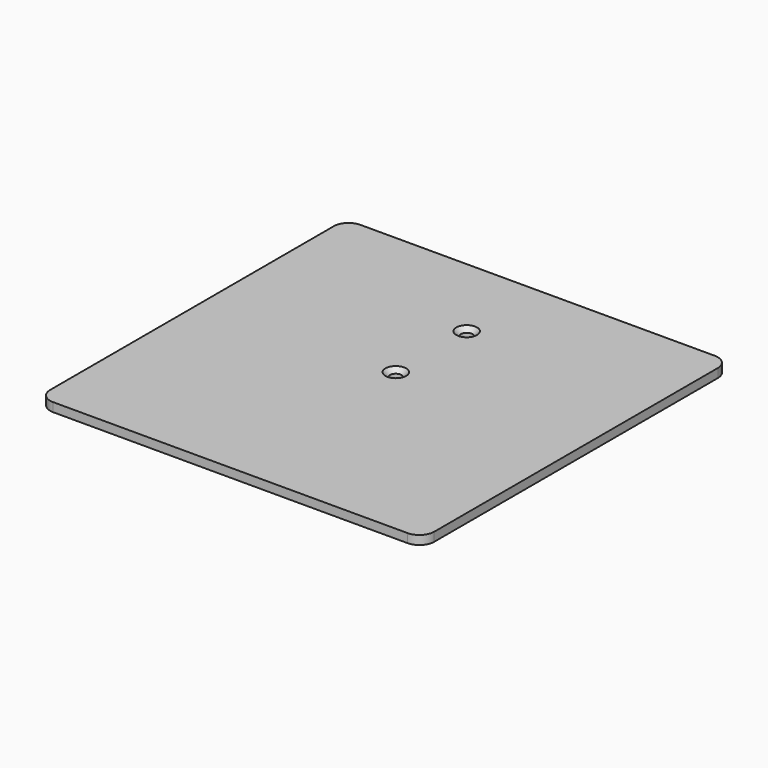
from build123d import *

# Parameters (mm, degrees)
F0_W           = 130
F0_H           = 130
F1_DEPTH       = 3
F2_D           = 4
F2_CSINK_D     = 7
F2_CSINK_ANGLE = 90
F3_R           = 5


with BuildPart() as f1:
    # F0 (on Top) → F1 (new body)
    with BuildSketch(Plane.XY):
        Rectangle(F0_W, F0_H)
    extrude(amount=-F1_DEPTH)

    # F2 (through all)
    with Locations(Plane.XY):
        with Locations((0, 35), (0, 5)):
            CounterSinkHole(F2_D / 2, F2_CSINK_D / 2, counter_sink_angle=F2_CSINK_ANGLE)

    # F3
    f3_edges = [f1.edges().sort_by_distance(p)[0] for p in [
        (-65, 65, -1.5),
        (65, 65, -1.5),
        (65, -65, -1.5),
        (-65, -65, -1.5),
    ]]
    fillet(f3_edges, radius=F3_R)


solid = f1.part
